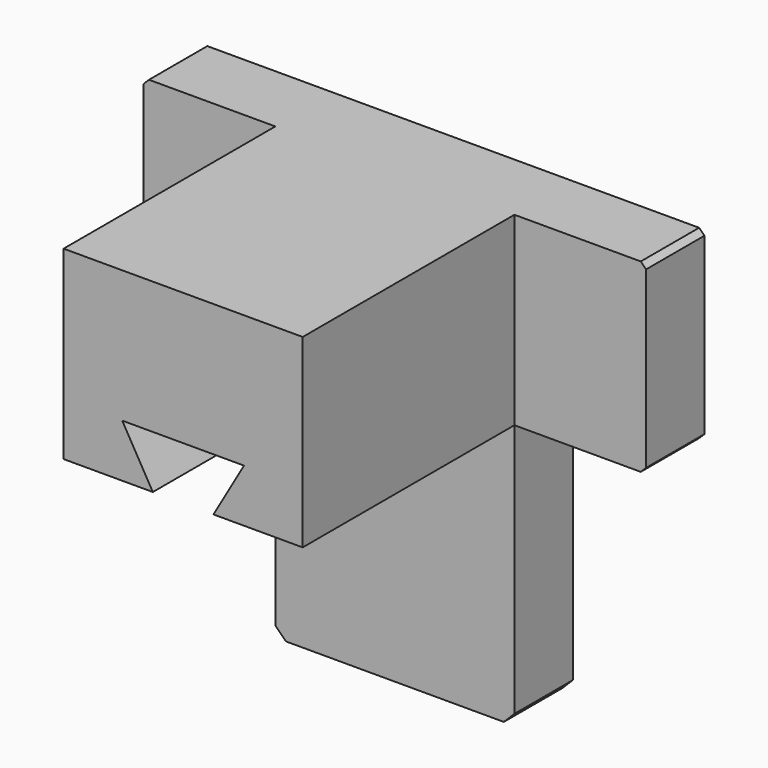
from build123d import *

# Parameters (mm, degrees)
F0_W     = 94.91
F0_H     = 35
F1_DEPTH = 13.78
F2_SIZE  = 1
F3_W     = 45.17
F3_H     = 35
F4_DEPTH = 50
F5_W     = 45.17
F5_H     = 13.78
F6_DEPTH = 50
F8_DEPTH = 30
F9_SIZE  = 2


with BuildPart() as f1:
    # F0 (on Front) → F1 (new body)
    with BuildSketch(Plane.XZ):
        with Locations((-0.477387, -10.428106)):
            Rectangle(F0_W, F0_H)
    extrude(amount=F1_DEPTH)

    # F2
    f2_edges = [f1.edges().sort_by_distance(p)[0] for p in [
        (-47.932387, -6.89, -27.928106),
        (46.977613, -6.89, -27.928106),
        (46.977613, -6.89, 7.071894),
        (-47.932387, -6.89, 7.071894),
    ]]
    chamfer(f2_edges, length=F2_SIZE)

    # F3 (on face) → F4 (join)
    with BuildSketch(Plane.XZ.offset(13.78)):
        with Locations((-0.477387, -10.428106)):
            Rectangle(F3_W, F3_H)
    extrude(amount=F4_DEPTH)

    # F5 (on face) → F6 (join)
    with BuildSketch(Plane(origin=(0, 0, -27.928106), x_dir=(1, 0, 0), z_dir=(0, 0, -1))):
        with Locations((-0.477387, 6.89)):
            Rectangle(F5_W, F5_H)
    extrude(amount=F6_DEPTH)

    # F7 (on face) → F8 (cut)
    with BuildSketch(Plane.XZ.offset(63.78)):
        Polygon((11.022613, -17.928106), (-11.977387, -17.928106), (-6.203884, -27.928106), (5.249111, -27.928106), align=None)
    extrude(amount=-F8_DEPTH, mode=Mode.SUBTRACT)

    # F9
    f9_edges = [f1.edges().sort_by_distance(p)[0] for p in [
        (-23.062387, -6.89, -77.928106),
        (22.107613, -6.89, -77.928106),
    ]]
    chamfer(f9_edges, length=F9_SIZE)


solid = f1.part
